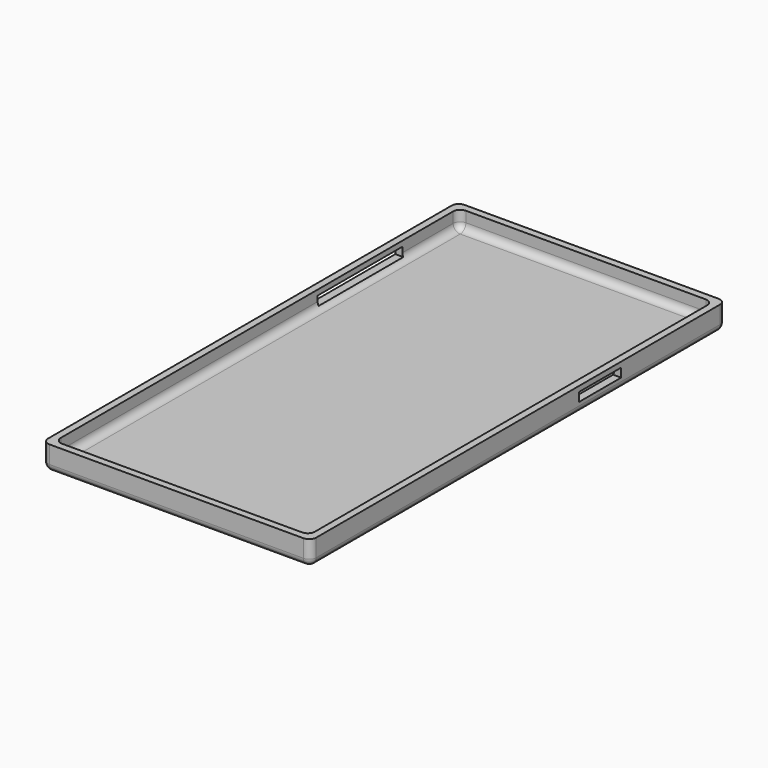
from build123d import *

# Parameters (mm, degrees)
F0_W     = 76
F0_H     = 147
F0_W_2   = 72
F0_H_2   = 143
F1_DEPTH = 2
F2_W     = 76
F2_H     = 147
F2_W_2   = 72
F2_H_2   = 143
F3_DEPTH = 5
F4_R     = 2
F5_W     = 15
F5_H     = 2.5
F6_DEPTH = 5
F7_W     = 30
F7_H     = 2.5
F8_DEPTH = 25


with BuildPart() as f1:
    # F0 (on Top) → F1 (new body)
    with BuildSketch(Plane.XY):
        with Locations((36, 71.5)):
            Rectangle(F0_W, F0_H)
        with Locations((36, 71.5)):
            Rectangle(F0_W_2, F0_H_2, mode=Mode.SUBTRACT)
        with Locations((36, 71.5)):
            Rectangle(F0_W_2, F0_H_2)
    extrude(amount=F1_DEPTH)

    # F2 (on face) → F3 (join)
    with BuildSketch(Plane.XY.offset(2)):
        with Locations((36, 71.5)):
            Rectangle(F2_W, F2_H)
        with Locations((36, 71.5)):
            Rectangle(F2_W_2, F2_H_2, mode=Mode.SUBTRACT)
    extrude(amount=F3_DEPTH)

    # F4
    f4_edges = [f1.edges().sort_by_distance(p)[0] for p in [
        (36, 143, 2),
        (72, 71.5, 2),
        (36, 0, 2),
        (0, 71.5, 2),
        (36, 145, 0),
        (-2, 71.5, 0),
        (36, -2, 0),
        (74, 71.5, 0),
        (74, -2, 3.5),
        (-2, -2, 3.5),
        (-2, 145, 3.5),
        (74, 145, 3.5),
        (72, 0, 4.5),
        (0, 0, 4.5),
        (0, 143, 4.5),
        (72, 143, 4.5),
    ]]
    fillet(f4_edges, radius=F4_R)

    # F5 (on face) → F6 (cut)
    with BuildSketch(Plane.YZ.offset(74)):
        with Locations((100.5, 4.25)):
            Rectangle(F5_W, F5_H)
    extrude(amount=-F6_DEPTH, mode=Mode.SUBTRACT)

    # F7 (on face) → F8 (cut)
    with BuildSketch(Plane(origin=(-2, 0, 0), x_dir=(0, -1, 0), z_dir=(-1, 0, 0))):
        with Locations((-108, 4.25)):
            Rectangle(F7_W, F7_H)
    extrude(amount=-F8_DEPTH, mode=Mode.SUBTRACT)


solid = f1.part
